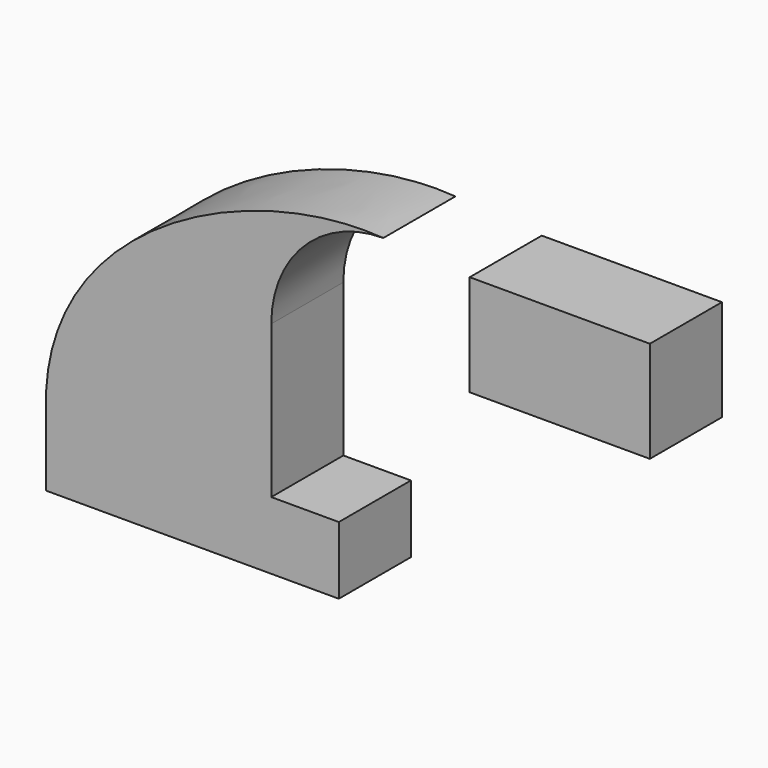
from build123d import *

# Parameters (mm, degrees)
F0_W     = 25.4
F0_H     = 28.575
F1_DEPTH = 25.4


with BuildPart() as f1:
    # F0 (on Front) → F1 (new body)
    with BuildSketch(Plane.XZ):
        Polygon((-41.275, 9.525), (-41.275, -9.525), (41.275, -9.525), (41.275, 9.525), (22.225, 9.525), align=None)
        Polygon((78.17649, 82.305153), (78.17649, 65.067645), (78.17649, 53.730153), (103.57649, 53.730153), (103.57649, 82.305153), align=None)
        with BuildLine():
            add(Edge.make_bspline(
                [(-41.275, 9.525), (-43.534182, 58.372997), (15.054437, 86.966559), (53.82399, 84.117645)],
                knots=[0, 0, 0, 0, 120.863065, 120.863065, 120.863065, 120.863065], degree=3))
            Line((-41.275, 9.525), (22.225, 9.525))
            Line((22.225, 9.525), (22.225, 52.518655))
            ThreePointArc((22.225, 52.518655), (31.48013, 74.862515), (53.82399, 84.117645))
        make_face()
        with Locations((116.27649, 68.017653)):
            Rectangle(F0_W, F0_H)
    extrude(amount=F1_DEPTH)


solid = f1.part
